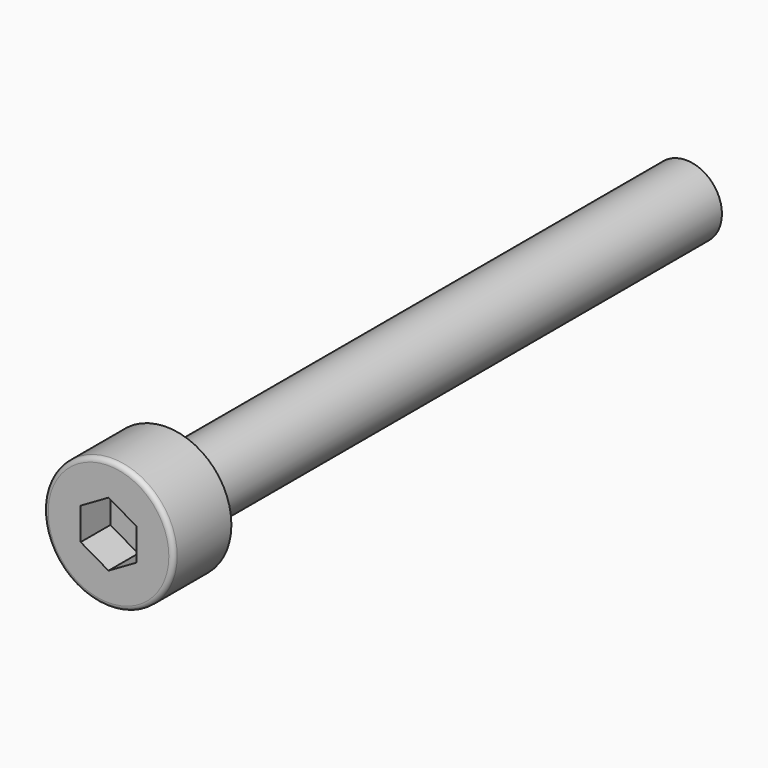
from build123d import *

# Parameters (mm, degrees)
F0_R     = 3.5
F0_R_2   = 1.925
F1_DEPTH = 3.9
F2_DEPTH = 35
F4_DEPTH = 2
F5_R     = 0.25


with BuildPart() as f1:
    # F0 (on Front) → F1 (new body)
    with BuildSketch(Plane.XZ):
        Circle(F0_R)
        Circle(F0_R_2, mode=Mode.SUBTRACT)
        Circle(F0_R_2)
    extrude(amount=F1_DEPTH)

    # F0 (on Front) → F2 (join)
    with BuildSketch(Plane.XZ):
        Circle(F0_R_2)
    extrude(amount=-F2_DEPTH)

    # F3 (on face) → F4 (cut)
    with BuildSketch(Plane.XZ.offset(3.9)):
        Polygon((1.5, -0.8660254038), (1.5, 0.8660254038), (0, 1.7320508076), (-1.5, 0.8660254038), (-1.5, -0.8660254038), (0, -1.7320508076), align=None)
    extrude(amount=-F4_DEPTH, mode=Mode.SUBTRACT)

    # F5
    f5_edges = [f1.edges().sort_by_distance(p)[0] for p in [
        (-3.5, -3.9, 0),
    ]]
    fillet(f5_edges, radius=F5_R)


solid = f1.part
